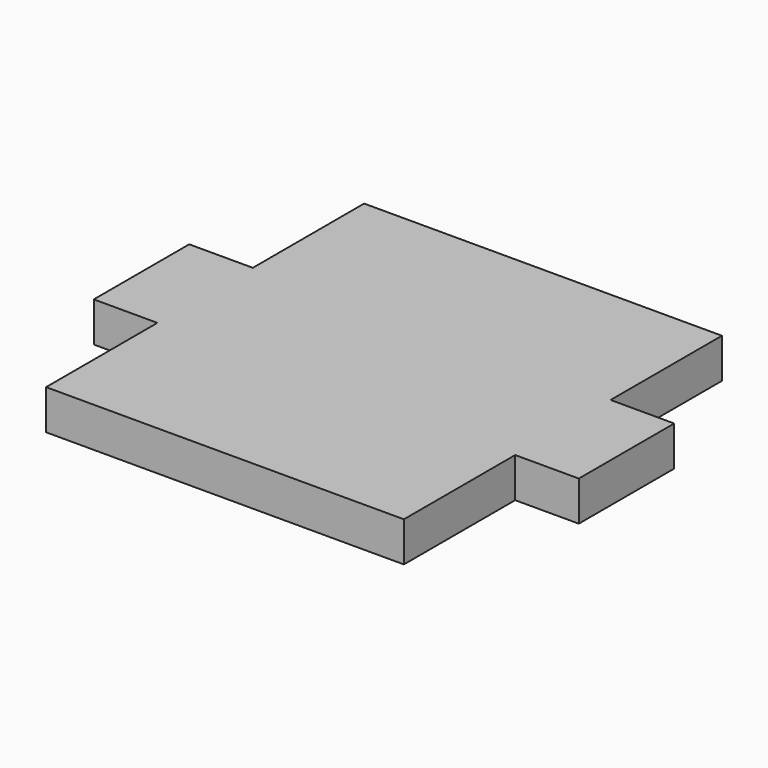
from build123d import *

# Parameters (mm, degrees)
F1_DEPTH = 5


with BuildPart() as f1:
    # F0 (on Top) → F1 (new body)
    with BuildSketch(Plane.XY):
        Polygon((-22.5, 7.5), (-30.5, 7.5), (-30.5, -7.5), (-22.5, -7.5), (-22.5, -25), (0, -25), (0, 25), (-22.5, 25), align=None)
        Polygon((22.5, 25), (0, 25), (0, -25), (22.5, -25), (22.5, -7.5), (30.5, -7.5), (30.5, 7.5), (22.5, 7.5), align=None)
    extrude(amount=F1_DEPTH)


solid = f1.part
